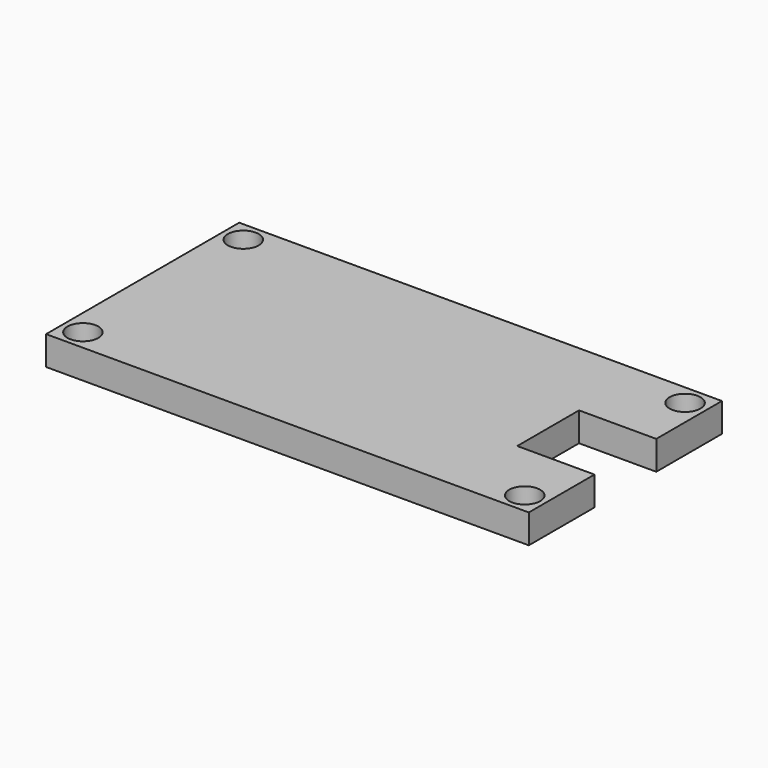
from build123d import *

# Parameters (mm, degrees)
F0_W     = 50
F0_H     = 25
F1_DEPTH = 3
F3_D     = 3.2
F5_DEPTH = 25


with BuildPart() as f1:
    # F0 (on Top) → F1 (new body)
    with BuildSketch(Plane.XY):
        with Locations((25, 11.048387)):
            Rectangle(F0_W, F0_H)
    extrude(amount=F1_DEPTH)

    # F3 (through all)
    with Locations(Plane.XY.offset(3)):
        with Locations((2.12132, 21.427067), (47.87868, 21.427067), (47.87868, 0.669707), (2.12132, 0.669707)):
            Hole(F3_D / 2)

    # F4 (on face) → F5 (cut)
    with BuildSketch(Plane.XY.offset(3)):
        Polygon((50, 7.048387), (50, 11.048387), (50, 15.048387), (42, 15.048387), (42, 7.048387), align=None)
    extrude(amount=-F5_DEPTH, mode=Mode.SUBTRACT)


solid = f1.part
